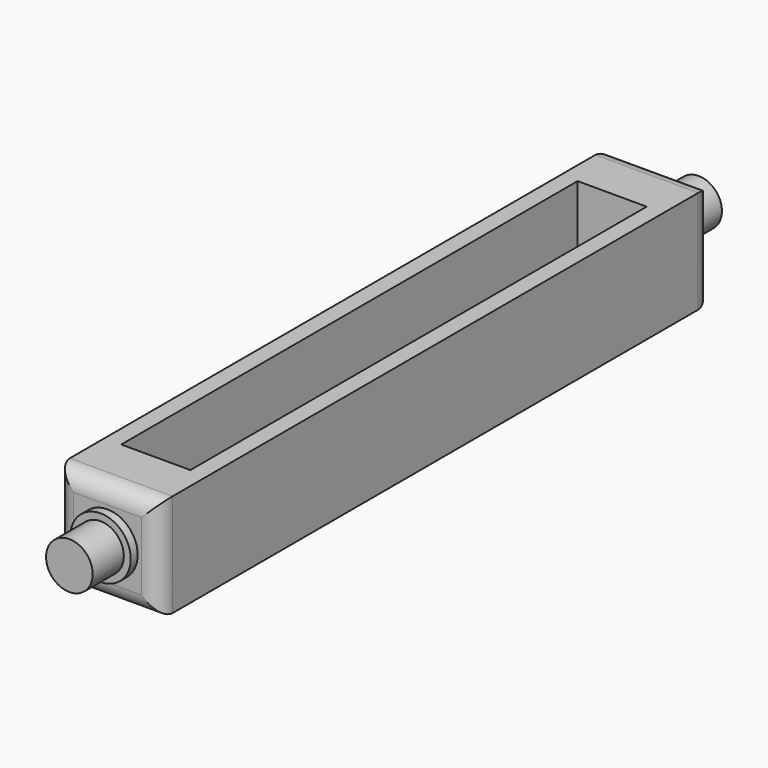
from build123d import *

# Parameters (mm, degrees)
SKETCH_W     = 11.9
SKETCH_H     = 11.9
PAD_DEPTH    = 80
SKETCH002_R  = 3.5
PAD001_DEPTH = 1
SKETCH001_R  = 3.5
PAD002_DEPTH = 1
SKETCH003_R  = 2.7
PAD003_DEPTH = 4.5
SKETCH004_R  = 2.7
PAD004_DEPTH = 4.5
FILLET_R     = 2
SKETCH005_W  = 8
SKETCH005_H  = 66
POCKET_DEPTH = 11.901


with BuildPart() as part:
    # Sketch → Pad (new body)
    with BuildSketch(Plane.XZ):
        Rectangle(SKETCH_W, SKETCH_H)
    extrude(amount=PAD_DEPTH)

    # Sketch002 (on Face5 of Pad) → Pad001 (join)
    with BuildSketch(Plane(origin=(0, 0, 0), x_dir=(1, 0, 0), z_dir=(0, 1, 0))):
        Circle(SKETCH002_R)
    extrude(amount=PAD001_DEPTH)

    # Sketch001 (on Face6 of Pad) → Pad002 (join)
    with BuildSketch(Plane.XZ.offset(80)):
        Circle(SKETCH001_R)
    extrude(amount=PAD002_DEPTH)

    # Sketch003 (on Face10 of Pad002) → Pad003 (join)
    with BuildSketch(Plane.XZ.offset(81)):
        Circle(SKETCH003_R)
    extrude(amount=PAD003_DEPTH)

    # Sketch004 (on Face9 of Pad003) → Pad004 (join)
    with BuildSketch(Plane(origin=(0, 1, 0), x_dir=(1, 0, 0), z_dir=(0, 1, 0))):
        Circle(SKETCH004_R)
    extrude(amount=PAD004_DEPTH)

    # Fillet
    fillet_edges = [part.edges().sort_by_distance(p)[0] for p in [
        (0, 0, 5.95),
        (-5.95, 0, 0),
        (0, 0, -5.95),
        (5.95, 0, 0),
        (0, -80, 5.95),
        (-5.95, -80, 0),
        (5.95, -80, 0),
        (0, -80, -5.95),
    ]]
    fillet(fillet_edges, radius=FILLET_R)

    # Sketch005 (on Face6 of Fillet) → Pocket (cut, through all)
    with BuildSketch(Plane(origin=(0, 0, 5.95), x_dir=(-1, 0, 0), z_dir=(0, 0, 1))):
        with Locations((0, 40)):
            Rectangle(SKETCH005_W, SKETCH005_H)
    extrude(amount=-POCKET_DEPTH, mode=Mode.SUBTRACT)


solid = part.part
